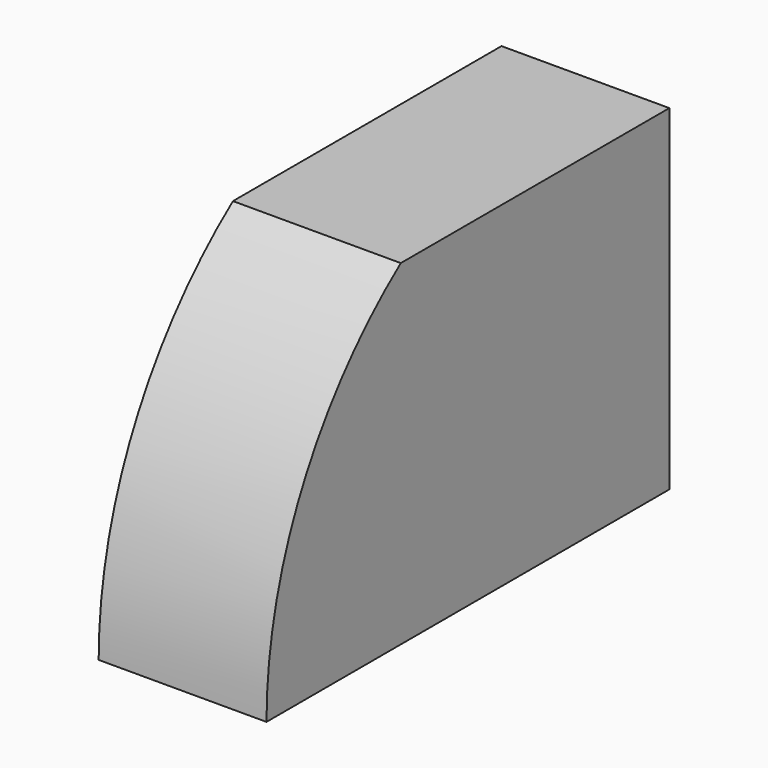
from build123d import *

# Parameters (mm, degrees)
F1_DEPTH = 50


with BuildPart() as f1:
    # F0 (on Right) → F1 (new body)
    with BuildSketch(Plane.YZ):
        with BuildLine():
            Line((95.444081, 51.736183), (-4.555919, 51.736183))
            ThreePointArc((-4.555919, 51.736183), (-41.359318, 7.637883), (-54.555919, -48.263817))
            Line((-54.555919, -48.263817), (95.444081, -48.263817))
            Line((95.444081, -48.263817), (95.444081, 51.736183))
        make_face()
    extrude(amount=F1_DEPTH)


solid = f1.part
